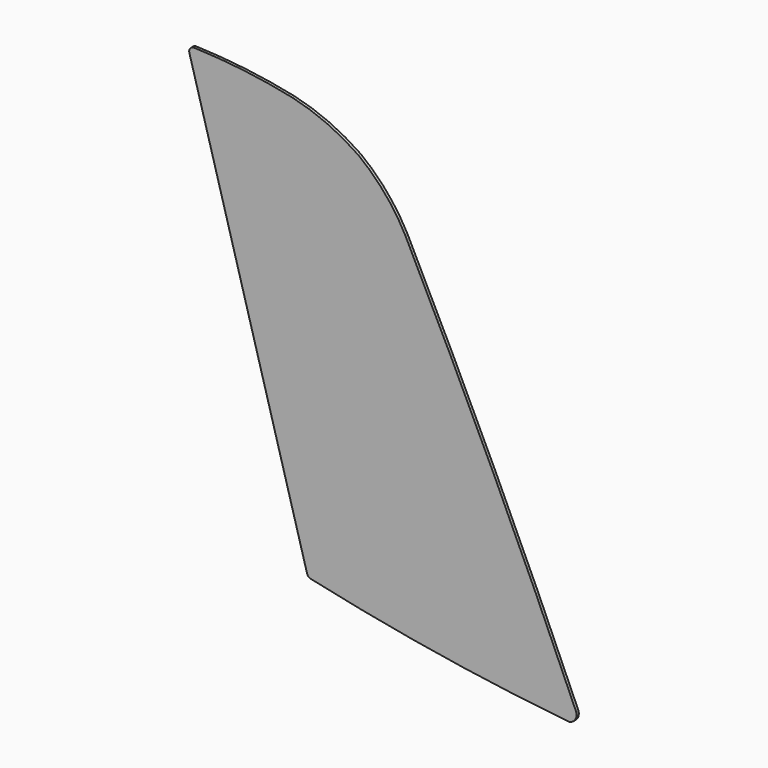
from build123d import *

# Parameters (mm, degrees)
F1_DEPTH = 1.524


with BuildPart() as f1:
    # F0 (on Front) → F1 (new body)
    with BuildSketch(Plane.XZ):
        with BuildLine():
            Line((-100.490248, 114.806409), (-37.497491, -110.022254))
            ThreePointArc((-37.497491, -110.022254), (-36.798374, -111.181068), (-35.603369, -111.816345))
            ThreePointArc((-35.603369, -111.816345), (33.033196, -125.01288), (102.319276, -134.208842))
            ThreePointArc((102.319276, -134.208842), (105.85136, -132.25921), (106.439874, -128.267929))
            ThreePointArc((106.439874, -128.267929), (62.240927, -30.360072), (15.13983, 66.185161))
            ThreePointArc((15.13983, 66.185161), (4.191154, 82.488564), (-10.033557, 96.028581))
            ThreePointArc((-10.033557, 96.028581), (-26.961596, 105.504958), (-45.357507, 111.665368))
            ThreePointArc((-45.357507, 111.665368), (-71.519168, 116.027713), (-97.966313, 118.030478))
            ThreePointArc((-97.966313, 118.030478), (-100.044471, 117.057391), (-100.490248, 114.806409))
        make_face()
    extrude(amount=F1_DEPTH)


solid = f1.part
